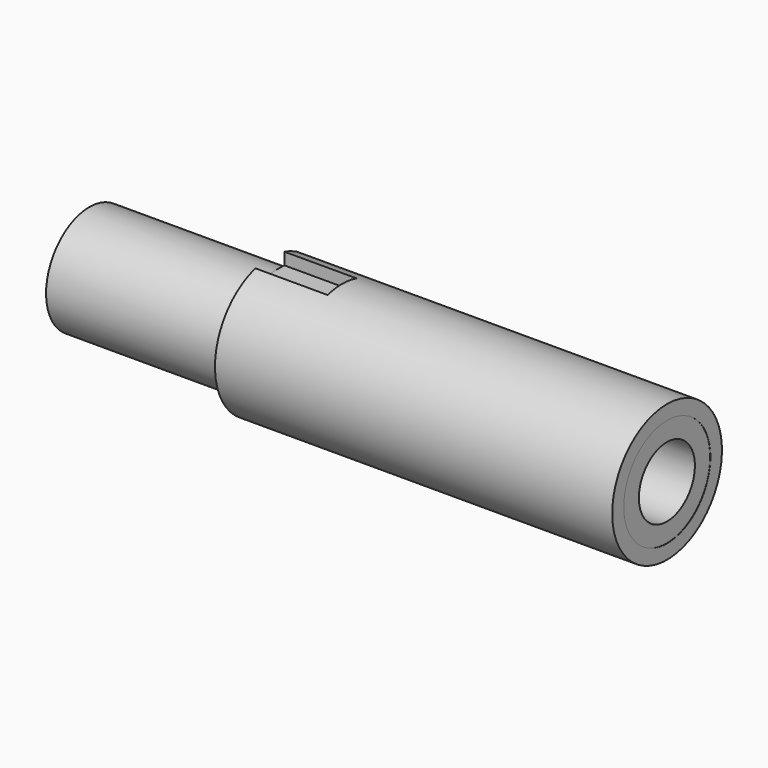
from build123d import *

# Parameters (mm, degrees)
F3_DEPTH = 10


with BuildPart() as f1:
    # F0 (on Front) → F1 (revolve)
    with BuildSketch(Plane.XZ):
        Polygon((-11.534466, 7.5), (-11.534466, 4.85), (68.465534, 4.85), (68.465534, 7.5), (68.49434, 7.5), (68.49434, 9.5), (13.465534, 9.5), (13.465534, 7.5), align=None)
    revolve(axis=Axis((0.277142, 0, 0), (1, 0, 0)))

    # F2 (on face) → F3 (cut)
    with BuildSketch(Plane(origin=(13.465534, 0, 0), x_dir=(0, -1, 0), z_dir=(-1, 0, 0))):
        with BuildLine():
            Line((-2.5, 7.5), (0, 7.5))
            Line((0, 7.5), (0, 9.5))
            ThreePointArc((0, 9.5), (-1.261163, 9.415916), (-2.5, 9.165151))
            Line((-2.5, 9.165151), (-2.5, 7.5))
        make_face()
        with BuildLine():
            Line((0, 9.5), (0, 7.5))
            Line((0, 7.5), (2.5, 7.5))
            Line((2.5, 7.5), (2.5, 9.165151))
            ThreePointArc((2.5, 9.165151), (1.261163, 9.415916), (0, 9.5))
        make_face()
    extrude(amount=-F3_DEPTH, mode=Mode.SUBTRACT)


solid = f1.part
